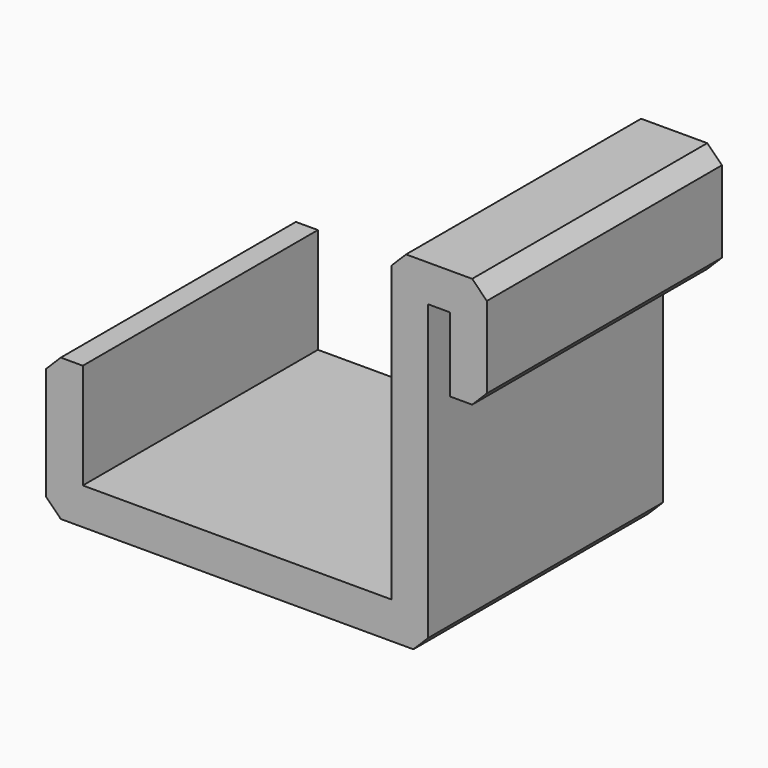
from build123d import *

# Parameters (mm, degrees)
F1_DEPTH = 40
F2_SIZE  = 2


with BuildPart() as f1:
    # F0 (on Front) → F1 (new body)
    with BuildSketch(Plane.XZ):
        Polygon((7.906215, 35.004012), (7.906215, 24.922522), (12.906215, 24.922522), (12.906215, 40.004012), (-0.093785, 40.004012), (-0.093785, -1.995988), (-42.093785, -1.995988), (-42.093785, 12.354015), (-47.093785, 12.354015), (-47.093785, -6.995988), (4.906215, -6.995988), (4.906215, 35.004012), align=None)
    extrude(amount=F1_DEPTH)

    # F2
    f2_edges = [f1.edges().sort_by_distance(p)[0] for p in [
        (-0.093785, -20, 40.004012),
        (12.906215, -20, 40.004012),
        (-47.093785, -20, 12.354015),
        (-47.093785, -20, -6.995988),
        (4.906215, -20, -6.995988),
        (12.906215, -20, 24.922522),
    ]]
    chamfer(f2_edges, length=F2_SIZE)


solid = f1.part
